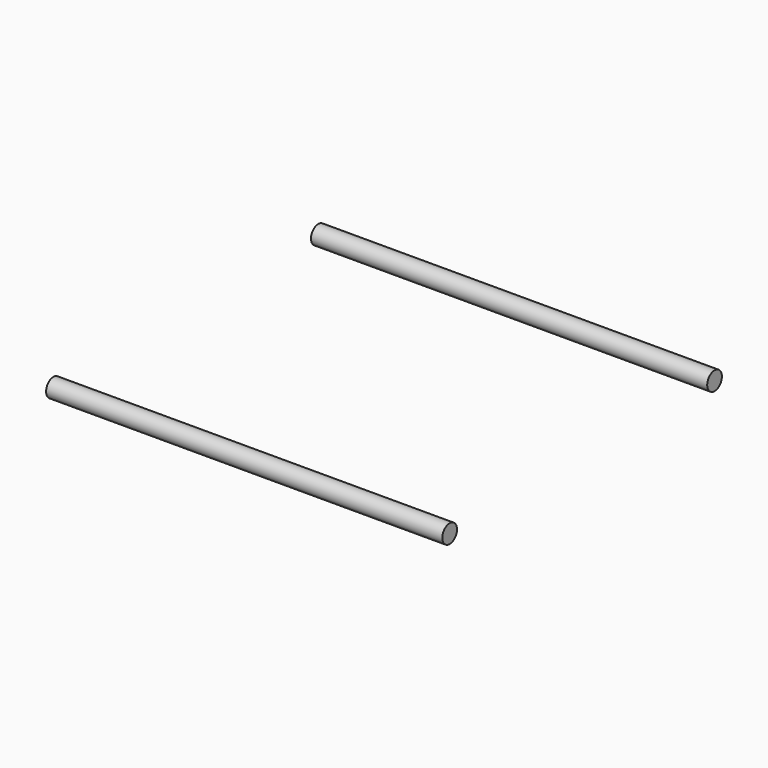
from build123d import *

# Parameters (mm, degrees)
F1_R = 9.75


with BuildPart() as f2:
    # F2: sweep along a path in F0
    with BuildLine(Plane.XY) as f2_path:
        Line((210, 175.5), (-210, 175.5))
    # F1 (on Right) → F2 (sweep)
    with BuildSketch(Plane.YZ):
        with Locations((175.5, 0)):
            Circle(F1_R)
    sweep(path=f2_path.line)


with BuildPart() as f3_1:
    # F3: instance of F2
    add(f2.part.mirror(Plane.XZ))


solid = Compound([f2.part, f3_1.part])
